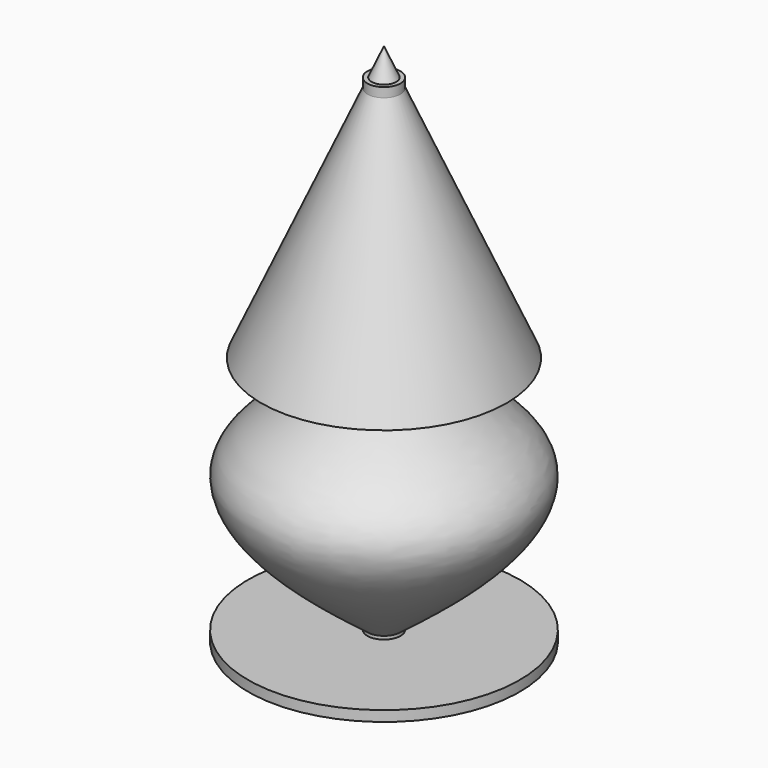
from build123d import *

# Parameters (mm, degrees)
F0_R     = 3.3510634676
F2_DEPTH = 50
F7_W     = 27.5042355061
F7_H     = 2.1134242415


with BuildPart() as f2:
    # F0 (on Top) → F2 (new body, symmetric)
    with BuildSketch(Plane.XY):
        Circle(F0_R)
    extrude(amount=F2_DEPTH, both=True)

    # F3 (on Right) → F4 (revolve)
    with BuildSketch(Plane.YZ):
        Polygon((0, 0), (0, 55.571809411), (-24.8537249863, 0), align=None)
    revolve(axis=Axis((0, 0, 27.7859047055), (0, 0, -1)))

    # F5 (on Right) → F6 (revolve)
    with BuildSketch(Plane.YZ):
        with BuildLine():
            Line((0, -50.3720380366), (0, 0))
            add(Edge.make_bspline(
                [(0, 0), (-13.3377713463, -6.1965659051), (-41.2377708413, -19.1585654127), (-14.1423062486, -39.6675193412), (0, -50.3720380366)],
                knots=[0, 0, 0, 0, 0.4780563293, 1, 1, 1, 1], degree=3))
        make_face()
    revolve(axis=Axis((0, 0, -25.1860190183), (0, 0, -1)))

    # F7 (on Right) → F8 (revolve)
    with BuildSketch(Plane.YZ):
        with Locations((13.752117753, -49.5501495898)):
            Rectangle(F7_W, F7_H)
    revolve(axis=Axis((0, 0, -49.5501495898), (0, 0, 1)))


solid = f2.part
